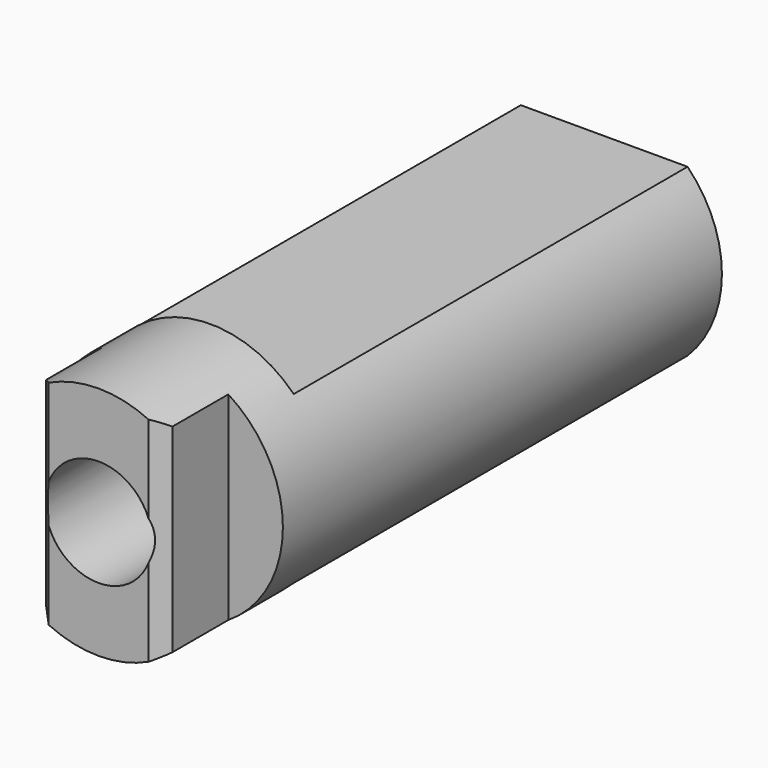
from build123d import *

# Parameters (mm, degrees)
F0_R     = 4.4958
F1_DEPTH = 24.13
F3_W     = 6.35
F3_H     = 21.166668
F4_DEPTH = 5.715
F5_SIZE  = 0.508
F7_W     = 18.438894
F7_H     = 4.169167
F8_DEPTH = 21.336
F10_D    = 4.0894


with BuildPart() as f1:
    # F0 (on Front) → F1 (new body)
    with BuildSketch(Plane.XZ):
        Circle(F0_R)
    extrude(amount=-F1_DEPTH)

    # F3 (on offset) → F4 (cut)
    with BuildSketch(Plane.XZ.offset(2.54)):
        with Locations((-5.588, -0.807043)):
            Rectangle(F3_W, F3_H)
        with Locations((5.588, -0.807043)):
            Rectangle(F3_W, F3_H)
    extrude(amount=-F4_DEPTH, mode=Mode.SUBTRACT)

    # F5
    f5_edges = [f1.edges().sort_by_distance(p)[0] for p in [
        (-2.413, 0, 0),
        (2.413, 0, 0),
    ]]
    chamfer(f5_edges, length=F5_SIZE)

    # F7 (on offset) → F8 (cut)
    with BuildSketch(Plane(origin=(0, 26.67, 0), x_dir=(1, 0, 0), z_dir=(0, 1, 0))):
        with Locations((-0.012653, 5.259583)):
            Rectangle(F7_W, F7_H)
        with Locations((-0.012653, -5.259583)):
            Rectangle(F7_W, F7_H)
    extrude(amount=-F8_DEPTH, mode=Mode.SUBTRACT)

    # F10 (through all)
    with Locations(Plane.XZ):
        with Locations((0, 0)):
            Hole(F10_D / 2)


solid = f1.part
